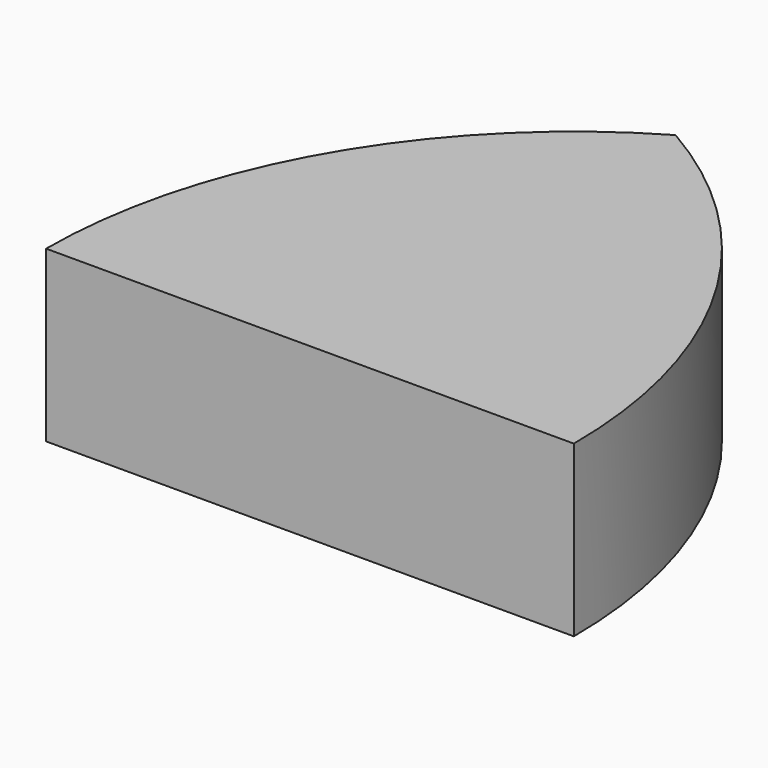
from build123d import *

# Parameters (mm, degrees)
F1_DEPTH = 25.4


with BuildPart() as f1:
    # F0 (on Top) → F1 (new body)
    with BuildSketch(Plane.XY):
        with BuildLine():
            Line((-39.49387, 0), (39.49387, 0))
            ThreePointArc((39.49387, 0), (28.91152, 39.49387), (0, 68.40539))
            ThreePointArc((0, 68.40539), (-28.91152, 39.49387), (-39.49387, 0))
        make_face()
    extrude(amount=F1_DEPTH)


solid = f1.part
